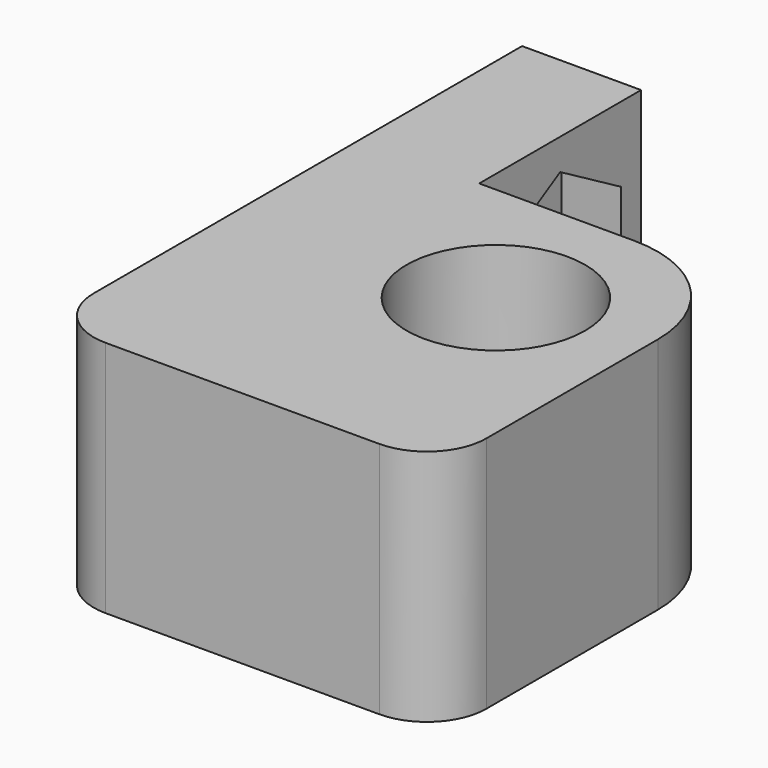
from build123d import *

# Parameters (mm, degrees)
F0_R      = 4.7625
F1_DEPTH  = 12.7
F2_R      = 6.35
F3_R      = 3.175
F4_R      = 1.8415
F5_DEPTH  = 25.4
F7_DEPTH  = 3.175
F8_R      = 1.8415
F9_DEPTH  = 25.4
F11_DEPTH = 3.175
F12_W     = 20.617577
F12_H     = 29.730969
F13_DEPTH = 25.4
F14_R     = 3.175


with BuildPart() as f1:
    # F0 (on Top) → F1 (new body)
    with BuildSketch(Plane.XY):
        Polygon((-13.335, 18.415), (-13.335, -13.335), (18.415, -13.335), (18.415, -6.985), (7.62, -6.985), (7.62, 7.62), (-6.985, 7.62), (-6.985, 18.415), align=None)
        Circle(F0_R, mode=Mode.SUBTRACT)
    extrude(amount=F1_DEPTH)

    # F2
    f2_edges = [f1.edges().sort_by_distance(p)[0] for p in [
        (7.62, 7.62, 6.35),
    ]]
    fillet(f2_edges, radius=F2_R)

    # F3
    f3_edges = [f1.edges().sort_by_distance(p)[0] for p in [
        (-13.335, -13.335, 6.35),
    ]]
    fillet(f3_edges, radius=F3_R)

    # F4 (on face) → F5 (cut)
    with BuildSketch(Plane(origin=(0, -6.985, 0), x_dir=(-1, 0, 0), z_dir=(0, 1, 0))):
        with Locations((-13.0175, 6.35)):
            Circle(F4_R)
    extrude(amount=-F5_DEPTH, mode=Mode.SUBTRACT)

    # F6 (on face) → F7 (cut)
    with BuildSketch(Plane(origin=(0, -6.985, 0), x_dir=(-1, 0, 0), z_dir=(0, 1, 0))):
        Polygon((-17.0815, 4.003649), (-13.0175, 1.657297), (-8.9535, 4.003649), (-8.9535, 8.696351), (-13.0175, 11.042703), (-17.0815, 8.696351), align=None)
    extrude(amount=-F7_DEPTH, mode=Mode.SUBTRACT)

    # F8 (on face) → F9 (cut)
    with BuildSketch(Plane.YZ.offset(-6.985)):
        with Locations((13.0175, 6.35)):
            Circle(F8_R)
    extrude(amount=-F9_DEPTH, mode=Mode.SUBTRACT)

    # F10 (on face) → F11 (cut)
    with BuildSketch(Plane.YZ.offset(-6.985)):
        Polygon((8.9535, 8.696351), (8.9535, 4.003649), (13.0175, 1.657297), (17.0815, 4.003649), (17.0815, 8.696351), (13.0175, 11.042703), align=None)
    extrude(amount=-F11_DEPTH, mode=Mode.SUBTRACT)

    # F12 (on face) → F13 (cut)
    with BuildSketch(Plane.XY.offset(12.7)):
        with Locations((17.928788, -6.337149)):
            Rectangle(F12_W, F12_H)
    extrude(amount=-F13_DEPTH, mode=Mode.SUBTRACT)

    # F14
    f14_edges = [f1.edges().sort_by_distance(p)[0] for p in [
        (7.62, -13.335, 6.35),
    ]]
    fillet(f14_edges, radius=F14_R)


solid = f1.part
